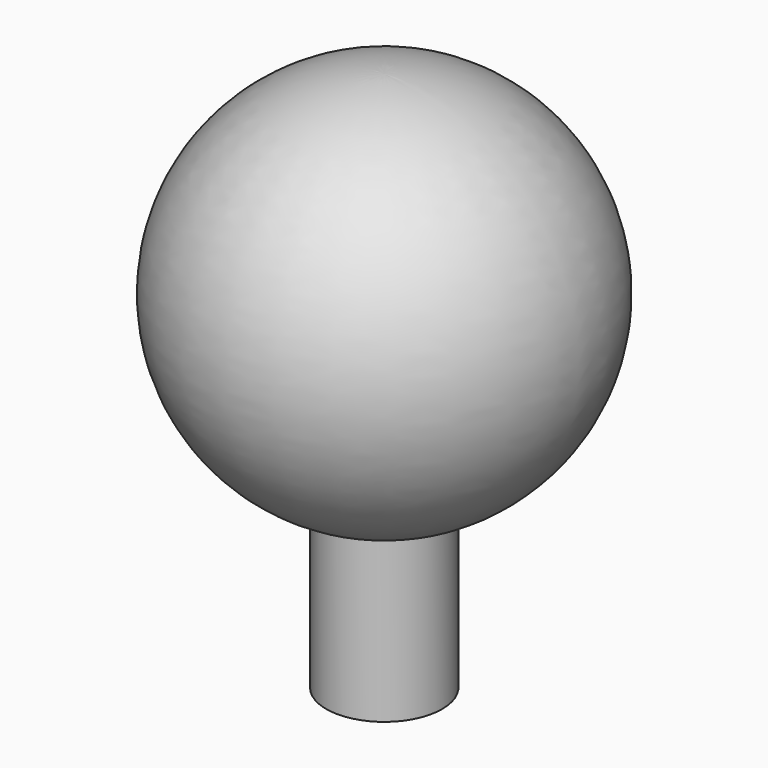
from build123d import *


with BuildPart() as f1:
    # F0 (on Front) → F1 (revolve)
    with BuildSketch(Plane.XZ):
        with BuildLine():
            Line((1.5, -8.985931), (1.5, -4.769696))
            ThreePointArc((1.5, -4.769696), (4.942089, 0.758788), (0, 5))
            Line((0, 5), (0, -8.985931))
            Line((0, -8.985931), (1.5, -8.985931))
        make_face()
    revolve(axis=Axis((0, 0, -1.992966), (0, 0, -1)))


solid = f1.part
